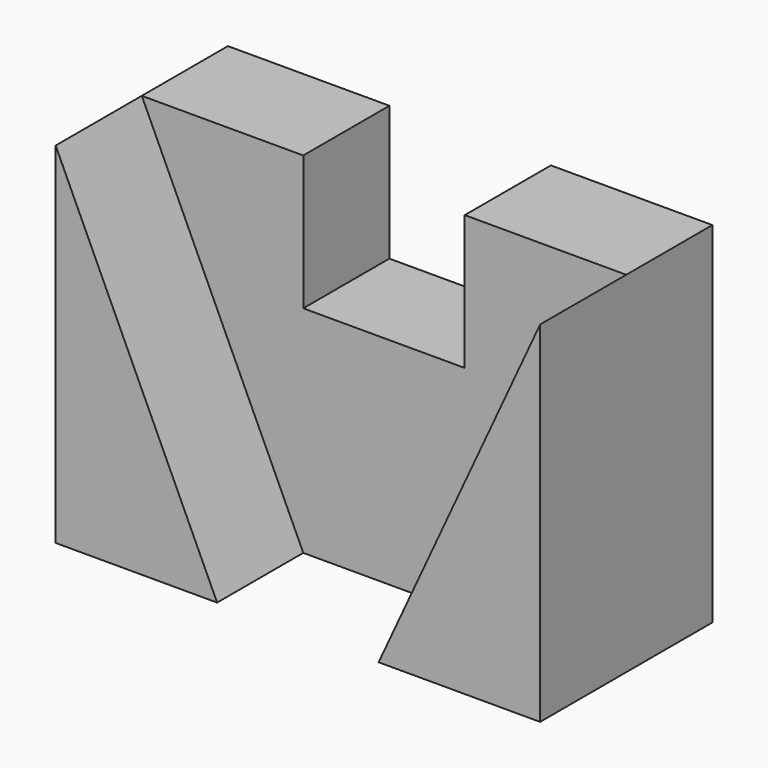
from build123d import *

# Parameters (mm, degrees)
F0_W     = 900
F0_H     = 650
F1_DEPTH = 400
F3_DEPTH = 200
F4_W     = 300
F4_H     = 250
F5_DEPTH = 200.001


with BuildPart() as f1:
    # F0 (on Front) → F1 (new body)
    with BuildSketch(Plane.XZ):
        Rectangle(F0_W, F0_H)
    extrude(amount=F1_DEPTH)

    # F2 (on face) → F3 (cut)
    with BuildSketch(Plane.XZ.offset(400)):
        Polygon((450, 325), (-450, 325), (-150, -325), (150, -325), align=None)
    extrude(amount=-F3_DEPTH, mode=Mode.SUBTRACT)

    # F4 (on face) → F5 (cut, through all)
    with BuildSketch(Plane.XZ.offset(200)):
        with Locations((0, 200)):
            Rectangle(F4_W, F4_H)
        with Locations((0, 450)):
            Rectangle(F4_W, F4_H)
    extrude(amount=-F5_DEPTH, mode=Mode.SUBTRACT)


solid = f1.part
